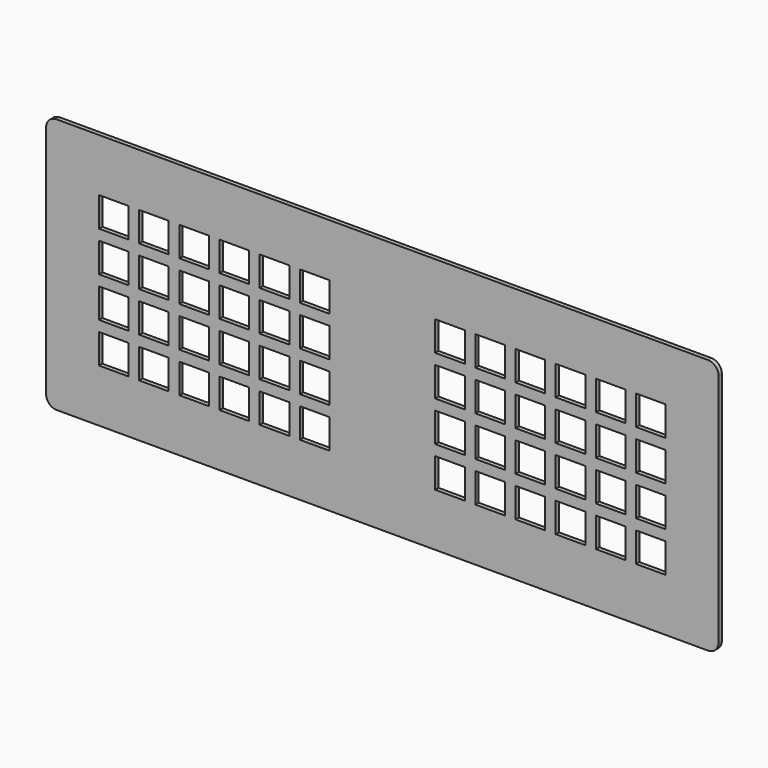
from build123d import *

# Parameters (mm, degrees)
F0_W     = 14
F0_H     = 14
F1_DEPTH = 2


with BuildPart() as f1:
    # F0 (on Front) → F1 (new body)
    with BuildSketch(Plane.XZ):
        with BuildLine():
            Line((154, 60.5), (-154, 60.5))
            ThreePointArc((-154, 60.5), (-157.535534, 59.035534), (-159, 55.5))
            Line((-159, 55.5), (-159, -55.5))
            ThreePointArc((-159, -55.5), (-157.535534, -59.035534), (-154, -60.5))
            Line((-154, -60.5), (154, -60.5))
            ThreePointArc((154, -60.5), (157.535534, -59.035534), (159, -55.5))
            Line((159, -55.5), (159, 55.5))
            ThreePointArc((159, 55.5), (157.535534, 59.035534), (154, 60.5))
        make_face()
        with Locations((-127, -28.5)):
            Rectangle(F0_W, F0_H, mode=Mode.SUBTRACT)
        with Locations((-108, -28.5)):
            Rectangle(F0_W, F0_H, mode=Mode.SUBTRACT)
        with Locations((-89, -28.5)):
            Rectangle(F0_W, F0_H, mode=Mode.SUBTRACT)
        with Locations((-127, -9.5)):
            Rectangle(F0_W, F0_H, mode=Mode.SUBTRACT)
        with Locations((-108, -9.5)):
            Rectangle(F0_W, F0_H, mode=Mode.SUBTRACT)
        with Locations((-89, -9.5)):
            Rectangle(F0_W, F0_H, mode=Mode.SUBTRACT)
        with Locations((-70, -28.5)):
            Rectangle(F0_W, F0_H, mode=Mode.SUBTRACT)
        with Locations((-51, -28.5)):
            Rectangle(F0_W, F0_H, mode=Mode.SUBTRACT)
        with Locations((-32, -28.5)):
            Rectangle(F0_W, F0_H, mode=Mode.SUBTRACT)
        with Locations((-70, -9.5)):
            Rectangle(F0_W, F0_H, mode=Mode.SUBTRACT)
        with Locations((-51, -9.5)):
            Rectangle(F0_W, F0_H, mode=Mode.SUBTRACT)
        with Locations((-32, -9.5)):
            Rectangle(F0_W, F0_H, mode=Mode.SUBTRACT)
        with Locations((32, -28.5)):
            Rectangle(F0_W, F0_H, mode=Mode.SUBTRACT)
        with Locations((51, -28.5)):
            Rectangle(F0_W, F0_H, mode=Mode.SUBTRACT)
        with Locations((70, -28.5)):
            Rectangle(F0_W, F0_H, mode=Mode.SUBTRACT)
        with Locations((32, -9.5)):
            Rectangle(F0_W, F0_H, mode=Mode.SUBTRACT)
        with Locations((51, -9.5)):
            Rectangle(F0_W, F0_H, mode=Mode.SUBTRACT)
        with Locations((70, -9.5)):
            Rectangle(F0_W, F0_H, mode=Mode.SUBTRACT)
        with Locations((89, -28.5)):
            Rectangle(F0_W, F0_H, mode=Mode.SUBTRACT)
        with Locations((108, -28.5)):
            Rectangle(F0_W, F0_H, mode=Mode.SUBTRACT)
        with Locations((127, -28.5)):
            Rectangle(F0_W, F0_H, mode=Mode.SUBTRACT)
        with Locations((89, -9.5)):
            Rectangle(F0_W, F0_H, mode=Mode.SUBTRACT)
        with Locations((108, -9.5)):
            Rectangle(F0_W, F0_H, mode=Mode.SUBTRACT)
        with Locations((127, -9.5)):
            Rectangle(F0_W, F0_H, mode=Mode.SUBTRACT)
        with Locations((-127, 9.5)):
            Rectangle(F0_W, F0_H, mode=Mode.SUBTRACT)
        with Locations((-108, 9.5)):
            Rectangle(F0_W, F0_H, mode=Mode.SUBTRACT)
        with Locations((-89, 9.5)):
            Rectangle(F0_W, F0_H, mode=Mode.SUBTRACT)
        with Locations((-127, 28.5)):
            Rectangle(F0_W, F0_H, mode=Mode.SUBTRACT)
        with Locations((-108, 28.5)):
            Rectangle(F0_W, F0_H, mode=Mode.SUBTRACT)
        with Locations((-89, 28.5)):
            Rectangle(F0_W, F0_H, mode=Mode.SUBTRACT)
        with Locations((-70, 9.5)):
            Rectangle(F0_W, F0_H, mode=Mode.SUBTRACT)
        with Locations((-51, 9.5)):
            Rectangle(F0_W, F0_H, mode=Mode.SUBTRACT)
        with Locations((-32, 9.5)):
            Rectangle(F0_W, F0_H, mode=Mode.SUBTRACT)
        with Locations((-70, 28.5)):
            Rectangle(F0_W, F0_H, mode=Mode.SUBTRACT)
        with Locations((-51, 28.5)):
            Rectangle(F0_W, F0_H, mode=Mode.SUBTRACT)
        with Locations((-32, 28.5)):
            Rectangle(F0_W, F0_H, mode=Mode.SUBTRACT)
        with Locations((32, 9.5)):
            Rectangle(F0_W, F0_H, mode=Mode.SUBTRACT)
        with Locations((51, 9.5)):
            Rectangle(F0_W, F0_H, mode=Mode.SUBTRACT)
        with Locations((70, 9.5)):
            Rectangle(F0_W, F0_H, mode=Mode.SUBTRACT)
        with Locations((32, 28.5)):
            Rectangle(F0_W, F0_H, mode=Mode.SUBTRACT)
        with Locations((51, 28.5)):
            Rectangle(F0_W, F0_H, mode=Mode.SUBTRACT)
        with Locations((70, 28.5)):
            Rectangle(F0_W, F0_H, mode=Mode.SUBTRACT)
        with Locations((89, 9.5)):
            Rectangle(F0_W, F0_H, mode=Mode.SUBTRACT)
        with Locations((108, 9.5)):
            Rectangle(F0_W, F0_H, mode=Mode.SUBTRACT)
        with Locations((127, 9.5)):
            Rectangle(F0_W, F0_H, mode=Mode.SUBTRACT)
        with Locations((89, 28.5)):
            Rectangle(F0_W, F0_H, mode=Mode.SUBTRACT)
        with Locations((108, 28.5)):
            Rectangle(F0_W, F0_H, mode=Mode.SUBTRACT)
        with Locations((127, 28.5)):
            Rectangle(F0_W, F0_H, mode=Mode.SUBTRACT)
    extrude(amount=F1_DEPTH)


solid = f1.part
